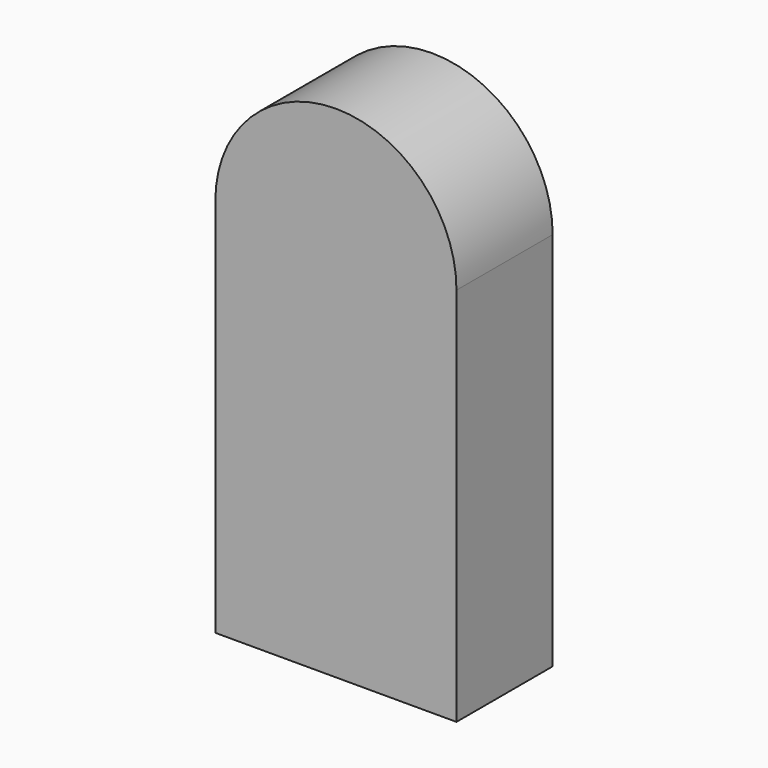
from build123d import *

# Parameters (mm, degrees)
F0_W     = 50.9416162968
F0_H     = 80.2978053689
F1_DEPTH = 25.4
F3_D     = 10.16
F3_DEPTH = 25.4
F3_TIP   = 3.0523719447


with BuildPart() as f1:
    # F0 (on Front) → F1 (new body)
    with BuildSketch(Plane.XZ):
        with BuildLine():
            ThreePointArc((31.9464355707, 31.946439296), (6.4756274223, 57.4172474444), (-18.9951807261, 31.946439296))
            Line((-18.9951807261, 31.946439296), (31.9464355707, 31.946439296))
        make_face()
        with Locations((6.4756274223, -8.2024633884)):
            Rectangle(F0_W, F0_H)
    extrude(amount=F1_DEPTH)

    # F3
    with Locations(Plane(origin=(0, 0, -48.3513660729), x_dir=(1, 0, 0), z_dir=(0, 0, -1))):
        with Locations((6.4756274223, 19.1739164293)):
            Hole(F3_D / 2, depth=F3_DEPTH)
            with Locations((0, 0, -(F3_DEPTH + F3_TIP / 2))):  # 118° drill point
                Cone(0, F3_D / 2, F3_TIP, mode=Mode.SUBTRACT)


solid = f1.part
